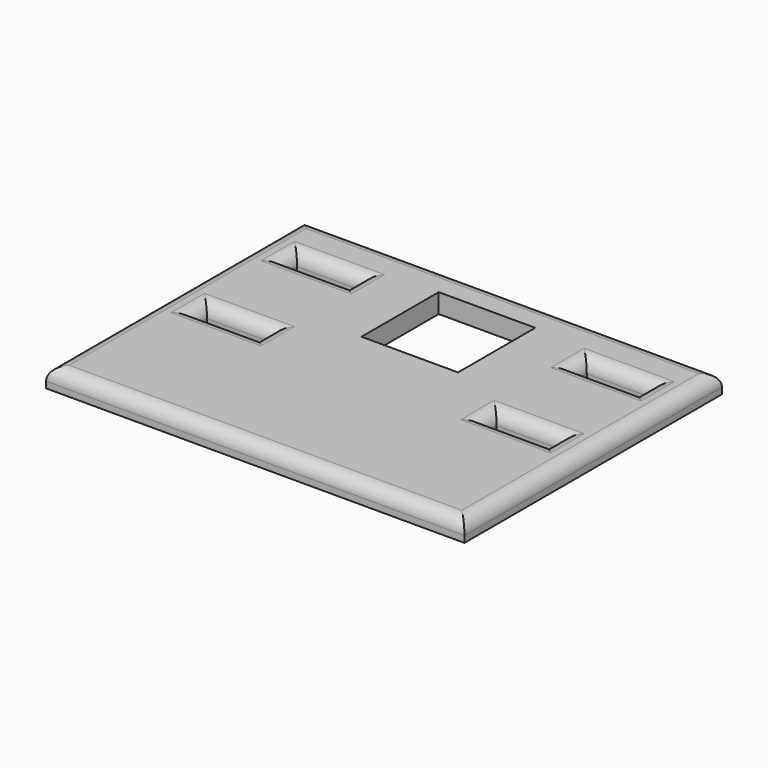
from build123d import *

# Parameters (mm, degrees)
F0_W     = 65
F0_H     = 50
F0_W_2   = 10
F0_H_2   = 2.5
F0_W_3   = 15
F0_H_3   = 15
F1_DEPTH = 3
F2_R     = 2


with BuildPart() as f1:
    # F0 (on Top) → F1 (new body)
    with BuildSketch(Plane.XY):
        Rectangle(F0_W, F0_H)
        with Locations((-22.5, -1.25)):
            Rectangle(F0_W_2, F0_H_2, mode=Mode.SUBTRACT)
        with Locations((22.5, -1.25)):
            Rectangle(F0_W_2, F0_H_2, mode=Mode.SUBTRACT)
        with Locations((-22.5, 16.25)):
            Rectangle(F0_W_2, F0_H_2, mode=Mode.SUBTRACT)
        with Locations((0, 12.5)):
            Rectangle(F0_W_3, F0_H_3, mode=Mode.SUBTRACT)
        with Locations((22.5, 16.25)):
            Rectangle(F0_W_2, F0_H_2, mode=Mode.SUBTRACT)
    extrude(amount=F1_DEPTH)

    # F2
    f2_edges = [f1.edges().sort_by_distance(p)[0] for p in [
        (-22.5, 17.5, 3),
        (-22.5, 15, 3),
        (-27.5, 16.25, 3),
        (-17.5, 16.25, 3),
        (0, 25, 3),
        (-32.5, 0, 3),
        (-22.5, -2.5, 3),
        (0, -25, 3),
        (-22.5, 0, 3),
        (-27.5, -1.25, 3),
        (-17.5, -1.25, 3),
        (22.5, 15, 3),
        (22.5, 17.5, 3),
        (17.5, 16.25, 3),
        (27.5, 16.25, 3),
        (32.5, 0, 3),
        (22.5, 0, 3),
        (17.5, -1.25, 3),
        (22.5, -2.5, 3),
        (27.5, -1.25, 3),
    ]]
    fillet(f2_edges, radius=F2_R)


solid = f1.part
